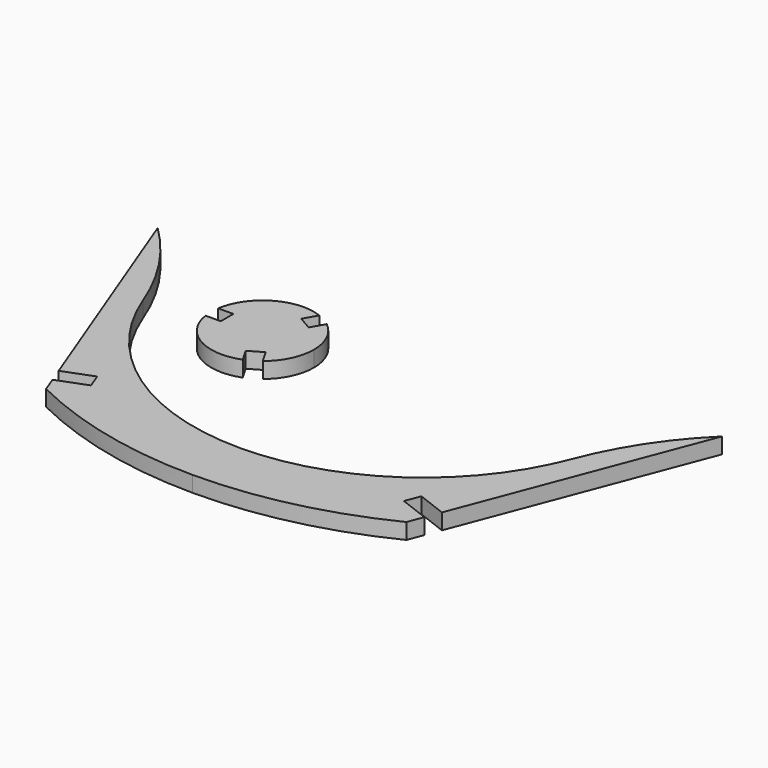
from build123d import *

# Parameters (mm, degrees)
F1_DEPTH = 3
F3_DEPTH = 25
F6_DEPTH = 3


with BuildPart() as f1:
    # F0 (on Top) → F1 (new body)
    with BuildSketch(Plane.XY):
        with BuildLine():
            ThreePointArc((0, 22.6265797497), (-24.7324129751, 30.3174399754), (-40.7420173483, 50.6775517235))
            ThreePointArc((-40.7420173483, 50.6775517235), (-46.0755119449, 61.0963779092), (-53.5229284021, 70.1260009251))
            Line((-53.5229284021, 70.1260009251), (-34.1787936319, 19.4819811072))
            ThreePointArc((-34.1787936319, 19.4819811072), (-17.5489172861, 13.5240247389), (0, 11.5027544827))
            Line((0, 11.5027544827), (0, 22.6265797497))
        make_face()
    extrude(amount=F1_DEPTH)

    # F2 (on face) → F3 (cut)
    with BuildSketch(Plane.XY.offset(3)):
        Polygon((-35.2855414011, 22.3795082711), (-29.6805013641, 24.5204254072), (-30.7509599322, 27.3229454257), (-36.3559999692, 25.1820282896), align=None)
    extrude(amount=-F3_DEPTH, mode=Mode.SUBTRACT)

    # F4: F1 across face


with BuildPart() as f1_1:
    add(f1.part)
    add(f1.part.mirror(Plane(origin=(0, 17.0646671162, 1.5), x_dir=(0, 1, 0), z_dir=(1, 0, 0))))


with BuildPart() as f6:
    # F5 (on Top) → F6 (new body)
    with BuildSketch(Plane.XY):
        with BuildLine():
            ThreePointArc((-14.6939180594, 46.518436245), (-12.0195063409, 49.8982193612), (-11.0657635942, 54.1012880884))
            ThreePointArc((-11.0657635942, 54.1012880884), (-12.0195063409, 58.3043568157), (-14.6939180594, 61.6841399319))
            Line((-14.6939180594, 61.6841399319), (-16.1358089014, 59.1867117345))
            Line((-16.1358089014, 59.1867117345), (-18.7338851128, 60.6867117345))
            Line((-18.7338851128, 60.6867117345), (-17.2919942707, 63.1841399319))
            ThreePointArc((-17.2919942707, 63.1841399319), (-25.6730138329, 62.5347879459), (-30.4258789299, 55.6012880884))
            Line((-30.4258789299, 55.6012880884), (-27.5420972458, 55.6012880884))
            Line((-27.5420972458, 55.6012880884), (-27.5420972458, 52.6012880884))
            Line((-27.5420972458, 52.6012880884), (-30.4258789299, 52.6012880884))
            ThreePointArc((-30.4258789299, 52.6012880884), (-25.6730138329, 45.667788231), (-17.2919942707, 45.018436245))
            Line((-17.2919942707, 45.018436245), (-18.7338851128, 47.5158644424))
            Line((-18.7338851128, 47.5158644424), (-16.1358089014, 49.0158644424))
            Line((-16.1358089014, 49.0158644424), (-14.6939180594, 46.518436245))
        make_face()
    extrude(amount=F6_DEPTH)


solid = Compound([f1_1.part, f6.part])
